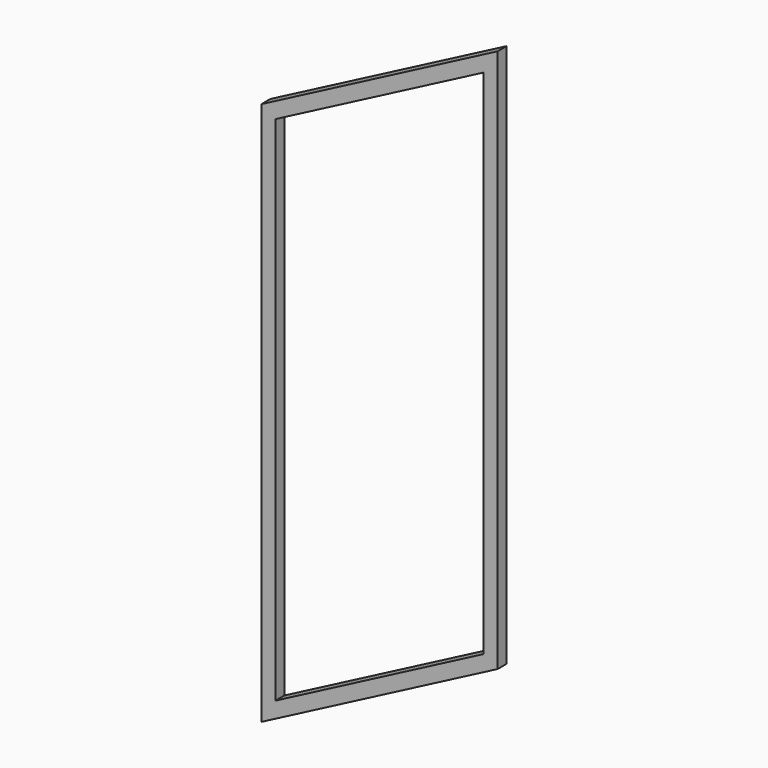
from build123d import *

# Parameters (mm, degrees)
F1_DEPTH = 15.24


with BuildPart() as f1:
    # F0 (on Front) → F1 (new body)
    with BuildSketch(Plane.XZ):
        Polygon((300.05, 869.161764), (-19.05, 702.543606), (-19.05, -31.437532), (300.05, 135.180625), align=None)
        Polygon((281, 146.724231), (0, 0), (0, 691), (281, 837.724231), align=None, mode=Mode.SUBTRACT)
    extrude(amount=F1_DEPTH)


solid = f1.part
